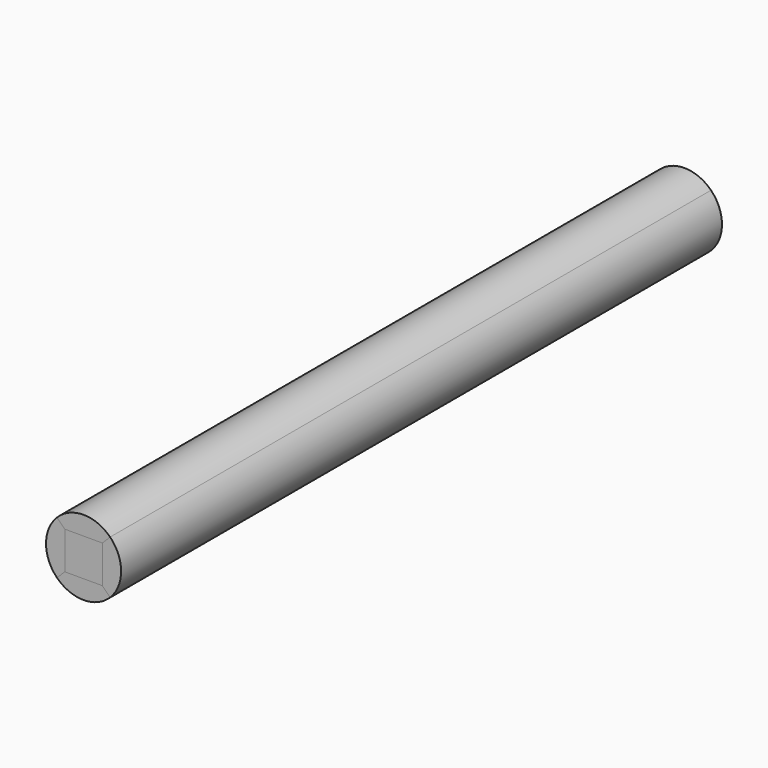
from build123d import *

# Parameters (mm, degrees)
F1_DEPTH = 10000
F3_COUNT = 4
F4_W     = 500
F4_H     = 500
F5_DEPTH = 10000


with BuildPart() as f1:
    # F0 (on Front) → F1 (new body)
    with BuildSketch(Plane.XZ):
        with BuildLine():
            Line((-353.553391, 353.553391), (-250, 250))
            Line((-250, 250), (250, 250))
            Line((250, 250), (353.553391, 353.553391))
            ThreePointArc((353.553391, 353.553391), (0, 500), (-353.553391, 353.553391))
        make_face()
    extrude(amount=F1_DEPTH)


with BuildPart() as f3_1:
    # F3: instance of F1
    add(f1.part.rotate(Axis((0, -500, 0), (0, -1, 0)), 1 * 360 / F3_COUNT))


with BuildPart() as f3_2:
    # F3: instance of F1
    add(f1.part.rotate(Axis((0, -500, 0), (0, -1, 0)), 2 * 360 / F3_COUNT))


with BuildPart() as f3_3:
    # F3: instance of F1
    add(f1.part.rotate(Axis((0, -500, 0), (0, -1, 0)), 3 * 360 / F3_COUNT))


with BuildPart() as f5:
    # F4 (on Front) → F5 (new body)
    with BuildSketch(Plane.XZ):
        Rectangle(F4_W, F4_H)
    extrude(amount=F5_DEPTH)


solid = Compound([f1.part, f3_1.part, f3_2.part, f3_3.part, f5.part])
